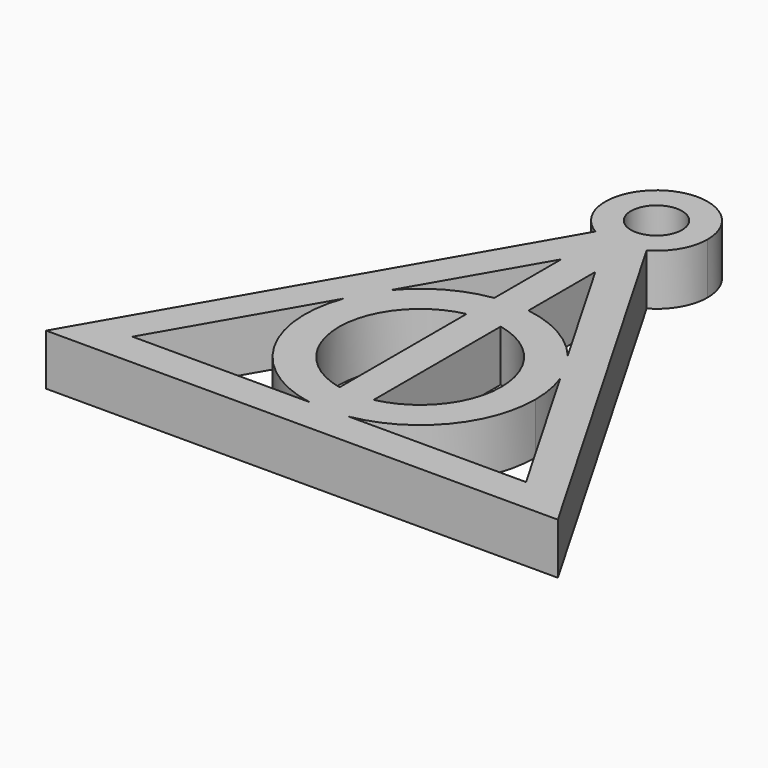
from build123d import *

# Parameters (mm, degrees)
F1_DEPTH = 1.5


with BuildPart() as f1:
    # F0 (on Top) → F1 (new body)
    with BuildSketch(Plane.XY):
        with BuildLine():
            ThreePointArc((0.75, -1.2990381057), (0, -1.5), (-0.75, -1.2990381057))
            Line((-0.75, -1.2990381057), (-7.5, -12.9903810568))
            Line((-7.5, -12.9903810568), (7.5, -12.9903810568))
            Line((7.5, -12.9903810568), (0.75, -1.2990381057))
        make_face()
        with BuildLine():
            Line((-0.5, -2.8660254038), (0, -2))
            Line((0, -2), (0.5, -2.8660254038))
            Line((0.5, -2.8660254038), (2.5943573048, -6.4935586649))
            ThreePointArc((2.5943573048, -6.4935586649), (2.9272758664, -6.9701905284), (3.1735918876, -7.4968223918))
            Line((3.1735918876, -7.4968223918), (5.7679491924, -11.9903810568))
            Line((5.7679491924, -11.9903810568), (0.5792345828, -11.9903810568))
            ThreePointArc((0.5792345828, -11.9903810568), (0, -12.0403810568), (-0.5792345828, -11.9903810568))
            Line((-0.5792345828, -11.9903810568), (-5.7679491924, -11.9903810568))
            Line((-5.7679491924, -11.9903810568), (-3.1735918876, -7.4968223918))
            ThreePointArc((-3.1735918876, -7.4968223918), (-2.9272758664, -6.9701905284), (-2.5943573048, -6.4935586649))
            Line((-2.5943573048, -6.4935586649), (-0.5, -2.8660254038))
        make_face(mode=Mode.SUBTRACT)
        with BuildLine():
            ThreePointArc((-0.5, -5.3173124194), (-1.6551889892, -5.7131184668), (-2.5943573048, -6.4935586649))
            Line((-2.5943573048, -6.4935586649), (-3.1735918876, -7.4968223918))
            ThreePointArc((-3.1735918876, -7.4968223918), (-2.9272758664, -10.3503175473), (-0.5792345828, -11.9903810568))
            Line((-0.5792345828, -11.9903810568), (-0.5, -11.9903810568))
            Line((-0.5, -11.9903810568), (-0.5, -10.9872702875))
            ThreePointArc((-0.5, -10.9872702875), (-2.3801270189, -8.6602540378), (-0.5, -6.3332377882))
            Line((-0.5, -6.3332377882), (-0.5, -5.3173124194))
        make_face()
        with BuildLine():
            Line((3.1735918876, -7.4968223918), (2.5943573048, -6.4935586649))
            ThreePointArc((2.5943573048, -6.4935586649), (1.6551889892, -5.7131184668), (0.5, -5.3173124194))
            Line((0.5, -5.3173124194), (0.5, -6.3332377882))
            ThreePointArc((0.5, -6.3332377882), (1.8513600589, -7.164436349), (2.3801270189, -8.6602540378))
            ThreePointArc((2.3801270189, -8.6602540378), (1.8513600589, -10.1560717267), (0.5, -10.9872702875))
            Line((0.5, -10.9872702875), (0.5, -11.9903810568))
            Line((0.5, -11.9903810568), (0.5792345828, -11.9903810568))
            ThreePointArc((0.5792345828, -11.9903810568), (2.5868074076, -10.8359576252), (3.3801270189, -8.6602540378))
            ThreePointArc((3.3801270189, -8.6602540378), (3.3280927233, -8.0694431638), (3.1735918876, -7.4968223918))
        make_face()
        with BuildLine():
            ThreePointArc((0.5, -6.3332377882), (0, -6.2801270189), (-0.5, -6.3332377882))
            Line((-0.5, -6.3332377882), (-0.5, -10.9872702875))
            ThreePointArc((-0.5, -10.9872702875), (0, -11.0403810568), (0.5, -10.9872702875))
            Line((0.5, -10.9872702875), (0.5, -6.3332377882))
        make_face()
        with BuildLine():
            Line((-0.75, -1.2990381057), (-0.375, -0.6495190528))
            ThreePointArc((-0.375, -0.6495190528), (-0.375, 0.6495190528), (0.75, 0))
            ThreePointArc((0.75, 0), (0.6495190528, -0.375), (0.375, -0.6495190528))
            Line((0.375, -0.6495190528), (0.75, -1.2990381057))
            ThreePointArc((0.75, -1.2990381057), (1.2990381057, -0.75), (1.5, 0))
            ThreePointArc((1.5, 0), (-0.75, 1.2990381057), (-0.75, -1.2990381057))
        make_face()
        with BuildLine():
            Line((0.5, -2.8660254038), (0, -2))
            Line((0, -2), (-0.5, -2.8660254038))
            Line((-0.5, -2.8660254038), (-0.5, -5.3173124194))
            ThreePointArc((-0.5, -5.3173124194), (0, -5.2801270189), (0.5, -5.3173124194))
            Line((0.5, -5.3173124194), (0.5, -2.8660254038))
        make_face()
        with BuildLine():
            ThreePointArc((0.5, -5.3173124194), (0, -5.2801270189), (-0.5, -5.3173124194))
            Line((-0.5, -5.3173124194), (-0.5, -6.3332377882))
            ThreePointArc((-0.5, -6.3332377882), (0, -6.2801270189), (0.5, -6.3332377882))
            Line((0.5, -6.3332377882), (0.5, -5.3173124194))
        make_face()
        with BuildLine():
            ThreePointArc((0.5, -10.9872702875), (0, -11.0403810568), (-0.5, -10.9872702875))
            Line((-0.5, -10.9872702875), (-0.5, -11.9903810568))
            Line((-0.5, -11.9903810568), (0.5, -11.9903810568))
            Line((0.5, -11.9903810568), (0.5, -10.9872702875))
        make_face()
        with BuildLine():
            ThreePointArc((0.375, -0.6495190528), (0, -0.75), (-0.375, -0.6495190528))
            Line((-0.375, -0.6495190528), (-0.75, -1.2990381057))
            ThreePointArc((-0.75, -1.2990381057), (0, -1.5), (0.75, -1.2990381057))
            Line((0.75, -1.2990381057), (0.375, -0.6495190528))
        make_face()
        with BuildLine():
            Line((-0.5, -11.9903810568), (-0.5792345828, -11.9903810568))
            ThreePointArc((-0.5792345828, -11.9903810568), (0, -12.0403810568), (0.5792345828, -11.9903810568))
            Line((0.5792345828, -11.9903810568), (0.5, -11.9903810568))
            Line((0.5, -11.9903810568), (-0.5, -11.9903810568))
        make_face()
        with BuildLine():
            Line((-3.1735918876, -7.4968223918), (-2.5943573048, -6.4935586649))
            ThreePointArc((-2.5943573048, -6.4935586649), (-2.9272758664, -6.9701905284), (-3.1735918876, -7.4968223918))
        make_face()
        with BuildLine():
            ThreePointArc((3.1735918876, -7.4968223918), (2.9272758664, -6.9701905284), (2.5943573048, -6.4935586649))
            Line((2.5943573048, -6.4935586649), (3.1735918876, -7.4968223918))
        make_face()
    extrude(amount=F1_DEPTH)


solid = f1.part
